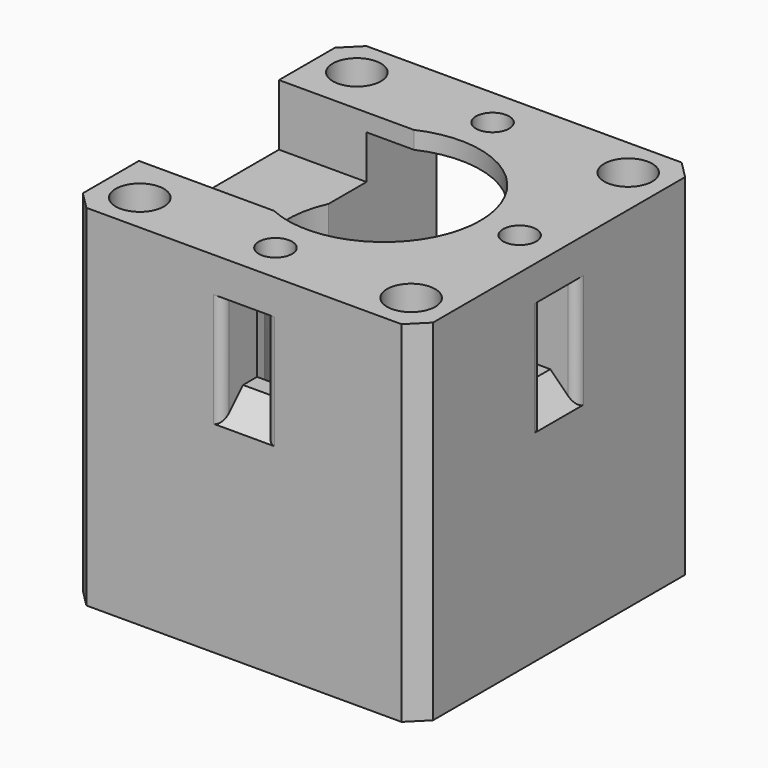
from build123d import *

# Parameters (mm, degrees)
SKETCH004_W     = 40
SKETCH004_H     = 40
PAD001_DEPTH    = 40
SKETCH005_W     = 38.216385
SKETCH005_H     = 40.583008
POCKET002_DEPTH = 11.7
SKETCH006_R     = 1.75
POCKET003_DEPTH = 40.001
SKETCH007_W     = 20
SKETCH007_H     = 28
POCKET004_DEPTH = 35
SKETCH009_R     = 11
POCKET005_DEPTH = 28
SKETCH011_R     = 2.75
POCKET006_DEPTH = 36
SKETCH012_R     = 1.9
POCKET007_DEPTH = 7
CHAMFER003_SIZE = 0.9
SKETCH020_R     = 4.692288
POCKET013_DEPTH = 40.001
FILLET_R        = 3
SKETCH021_W     = 5
SKETCH021_H     = 10
POCKET014_DEPTH = 9
SKETCH022_W     = 5
SKETCH022_H     = 10
POCKET015_DEPTH = 12
SKETCH023_W     = 20
SKETCH023_H     = 14.49538
POCKET016_DEPTH = 20
CHAMFER006_SIZE = 3
CHAMFER007_SIZE = 2
FILLET001_R     = 1


with BuildPart() as part:
    # Sketch004 → Pad001 (new body)
    with BuildSketch(Plane.XY):
        Rectangle(SKETCH004_W, SKETCH004_H)
    extrude(amount=PAD001_DEPTH)

    # Sketch005 (on Face5 of Pad001) → Pocket002 (cut)
    with BuildSketch(Plane(origin=(0, 0, 0), x_dir=(1, 0, 0), z_dir=(0, 0, -1))):
        with Locations((-19.108192, -20.291504)):
            Rectangle(SKETCH005_W, SKETCH005_H)
    extrude(amount=-POCKET002_DEPTH, mode=Mode.SUBTRACT)

    # Sketch006 (on Face4 of Pocket002) → Pocket003 (cut, through all)
    with BuildSketch(Plane(origin=(0, 0, 0), x_dir=(1, 0, 0), z_dir=(0, 0, -1))):
        with Locations((-15.5, 15.5)):
            Circle(SKETCH006_R)
        with Locations((15.5, 15.5)):
            Circle(SKETCH006_R)
        with Locations((-15.5, -15.5)):
            Circle(SKETCH006_R)
        with Locations((15.5, -15.5)):
            Circle(SKETCH006_R)
    extrude(amount=-POCKET003_DEPTH, mode=Mode.SUBTRACT)

    # Sketch007 (on Face1 of Pocket003) → Pocket004 (cut)
    with BuildSketch(Plane(origin=(0, 20, 0), x_dir=(-1, 0, 0), z_dir=(0, 1, 0))):
        with Locations((0, 24)):
            Rectangle(SKETCH007_W, SKETCH007_H)
    extrude(amount=-POCKET004_DEPTH, mode=Mode.SUBTRACT)

    # Sketch009 (on Face9 of Pocket004) → Pocket005 (cut)
    with BuildSketch(Plane.XY.offset(40)):
        Circle(SKETCH009_R)
    extrude(amount=-POCKET005_DEPTH, mode=Mode.SUBTRACT)

    # Sketch011 (on Face9 of Pocket005) → Pocket006 (cut)
    with BuildSketch(Plane.XY.offset(40)):
        with Locations((-15.5, -15.5)):
            Circle(SKETCH011_R)
        with Locations((-15.5, 15.5)):
            Circle(SKETCH011_R)
        with Locations((15.5, 15.5)):
            Circle(SKETCH011_R)
        with Locations((15.5, -15.5)):
            Circle(SKETCH011_R)
    extrude(amount=-POCKET006_DEPTH, mode=Mode.SUBTRACT)

    # Sketch012 (on Face9 of Pocket006) → Pocket007 (cut)
    with BuildSketch(Plane.XY.offset(40)):
        with Locations((0, 15.5)):
            Circle(SKETCH012_R)
        with Locations((15.5, 0)):
            Circle(SKETCH012_R)
        with Locations((0, -15.5)):
            Circle(SKETCH012_R)
        with Locations((-15.5, 0)):
            Circle(SKETCH012_R)
    extrude(amount=-POCKET007_DEPTH, mode=Mode.SUBTRACT)

    # Chamfer003
    chamfer003_edges = [part.edges().sort_by_distance(p)[0] for p in [
        (10.747093, 2.345208, 12),
        (0, -11, 38),
        (10.747093, -2.345208, 12),
    ]]
    chamfer(chamfer003_edges, length=CHAMFER003_SIZE)

    # Sketch020 (on Face19 of Chamfer003) → Pocket013 (cut, through all)
    with BuildSketch(Plane(origin=(0, 0, 0), x_dir=(1, 0, 0), z_dir=(0, 0, -1))):
        Circle(SKETCH020_R)
    extrude(amount=-POCKET013_DEPTH, mode=Mode.SUBTRACT)

    # Fillet
    fillet_edges = [part.edges().sort_by_distance(p)[0] for p in [
        (-4.692288, 0, 5),
        (0, 4.692288, 5),
    ]]
    fillet(fillet_edges, radius=FILLET_R)

    # Sketch021 (on Face22 of Fillet) → Pocket014 (cut)
    with BuildSketch(Plane.YZ.offset(20)):
        with Locations((0, 31)):
            Rectangle(SKETCH021_W, SKETCH021_H)
    extrude(amount=-POCKET014_DEPTH, mode=Mode.SUBTRACT)

    # Sketch022 → Pocket015 (cut)
    with BuildSketch(Plane.XZ.offset(20)):
        with Locations((0, 31)):
            Rectangle(SKETCH022_W, SKETCH022_H)
    extrude(amount=-POCKET015_DEPTH, mode=Mode.SUBTRACT)

    # Sketch023 (on Face13 of Pocket015) → Pocket016 (cut)
    with BuildSketch(Plane(origin=(-20, 0, 0), x_dir=(0, -1, 0), z_dir=(-1, 0, 0))):
        with Locations((0, 40.24769)):
            Rectangle(SKETCH023_W, SKETCH023_H)
    extrude(amount=-POCKET016_DEPTH, mode=Mode.SUBTRACT)

    # Chamfer006
    chamfer006_edges = [part.edges().sort_by_distance(p)[0] for p in [
        (0, -20, 26),
        (20, 0, 26),
    ]]
    chamfer(chamfer006_edges, length=CHAMFER006_SIZE)

    # Chamfer007
    chamfer007_edges = [part.edges().sort_by_distance(p)[0] for p in [
        (-20, -20, 20),
        (-20, 20, 25.85),
        (20, -20, 20),
        (20, 20, 20),
    ]]
    chamfer(chamfer007_edges, length=CHAMFER007_SIZE)

    # Fillet001
    fillet001_edges = [part.edges().sort_by_distance(p)[0] for p in [
        (-2.5, -20, 31),
        (2.5, -20, 31),
        (20, -2.5, 31),
        (20, 2.5, 31),
    ]]
    fillet(fillet001_edges, radius=FILLET001_R)


solid = part.part
